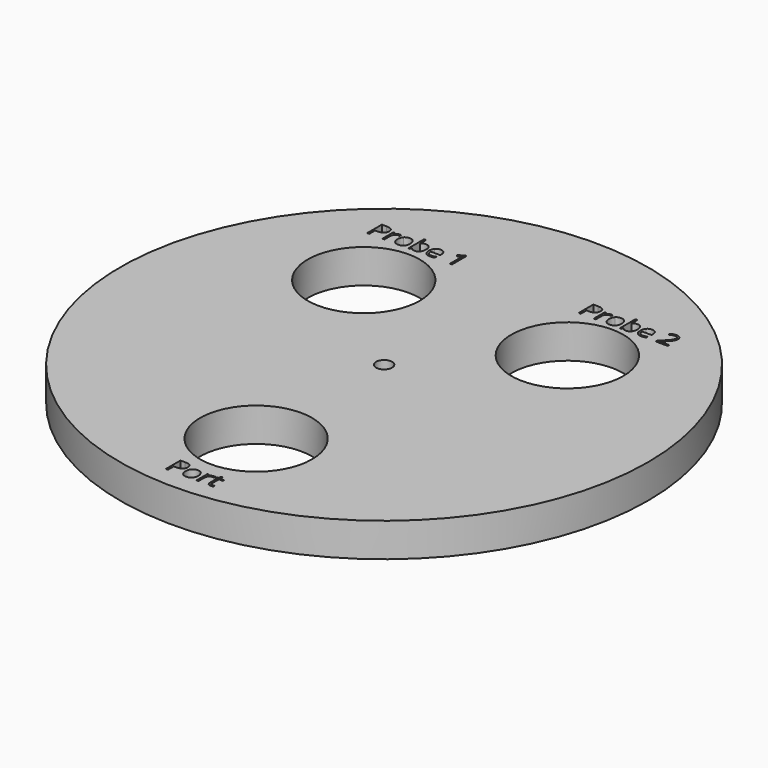
from build123d import *

# Parameters (mm, degrees)
F0_R     = 49.5
F0_R_2   = 10.5
F0_R_3   = 1.5
F1_DEPTH = 6.35


with BuildPart() as f1:
    # F0 (on Top) → F1 (new body)
    with BuildSketch(Plane.XY):
        Circle(F0_R)
        with BuildLine():
            add(Edge.make_bspline(
                [(-3.4192780036, -42.3484798278), (-2.1291036731, -42.3484798278), (-2.1291036731, -43.3515300813)],
                knots=[0, 0, 0, 1, 1, 1], degree=2))
            add(Edge.make_bspline(
                [(-2.1291036731, -43.3515300813), (-2.1291036731, -43.8745329933), (-2.4859363516, -44.1560050216)],
                knots=[0, 0, 0, 1, 1, 1], degree=2))
            add(Edge.make_bspline(
                [(-2.4859363516, -44.1560050216), (-2.84276903, -44.4374770498), (-3.5066963578, -44.4374770498)],
                knots=[0, 0, 0, 1, 1, 1], degree=2))
            Line((-3.5066963578, -44.4374770498), (-3.9121366555, -44.4374770498))
            Line((-3.9121366555, -44.4374770498), (-3.9121366555, -45.7917079329))
            Line((-3.9121366555, -45.7917079329), (-4.3123017078, -45.7917079329))
            Line((-4.3123017078, -45.7917079329), (-4.3123017078, -42.3484798278))
            Line((-4.3123017078, -42.3484798278), (-3.4192780036, -42.3484798278))
        make_face(mode=Mode.SUBTRACT)
        with BuildLine():
            add(Edge.make_bspline(
                [(0.4410713001, -43.5237291668), (0.7602236534, -43.8843298778), (0.7602236534, -44.4985191765)],
                knots=[0, 0, 0, 1, 1, 1], degree=2))
            add(Edge.make_bspline(
                [(0.7602236534, -44.4985191765), (0.7602236534, -45.1300414247), (0.4425785131, -45.4846132836)],
                knots=[0, 0, 0, 1, 1, 1], degree=2))
            add(Edge.make_bspline(
                [(0.4425785131, -45.4846132836), (0.1249333727, -45.8391851425), (-0.4357498644, -45.8391851425)],
                knots=[0, 0, 0, 1, 1, 1], degree=2))
            add(Edge.make_bspline(
                [(-0.4357498644, -45.8391851425), (-0.782408855, -45.8391851425), (-1.0506927695, -45.6764061382)],
                knots=[0, 0, 0, 1, 1, 1], degree=2))
            add(Edge.make_bspline(
                [(-1.0506927695, -45.6764061382), (-1.3189766841, -45.5136271339), (-1.4651763453, -45.2099237138)],
                knots=[0, 0, 0, 1, 1, 1], degree=2))
            add(Edge.make_bspline(
                [(-1.4651763453, -45.2099237138), (-1.6113760066, -44.9062202937), (-1.6113760066, -44.4985191765)],
                knots=[0, 0, 0, 1, 1, 1], degree=2))
            add(Edge.make_bspline(
                [(-1.6113760066, -44.4985191765), (-1.6113760066, -43.8677505347), (-1.2956148825, -43.5154394953)],
                knots=[0, 0, 0, 1, 1, 1], degree=2))
            add(Edge.make_bspline(
                [(-1.2956148825, -43.5154394953), (-0.9798537584, -43.1631284559), (-0.4191705213, -43.1631284559)],
                knots=[0, 0, 0, 1, 1, 1], degree=2))
            add(Edge.make_bspline(
                [(-0.4191705213, -43.1631284559), (0.1219189467, -43.1631284559), (0.4410713001, -43.5237291668)],
                knots=[0, 0, 0, 1, 1, 1], degree=2))
        make_face(mode=Mode.SUBTRACT)
        with BuildLine():
            add(Edge.make_bspline(
                [(2.1785110892, -43.2999080359), (2.3812312381, -43.1631284559), (2.6238925315, -43.1631284559)],
                knots=[0, 0, 0, 1, 1, 1], degree=2))
            add(Edge.make_bspline(
                [(2.6238925315, -43.1631284559), (2.7957148139, -43.1631284559), (2.9321175906, -43.1917655029)],
                knots=[0, 0, 0, 1, 1, 1], degree=2))
            Line((2.9321175906, -43.1917655029), (2.8778579225, -43.5542502301))
            add(Edge.make_bspline(
                [(2.8778579225, -43.5542502301), (2.7180933442, -43.5188307246), (2.5952554845, -43.5188307246)],
                knots=[0, 0, 0, 1, 1, 1], degree=2))
            add(Edge.make_bspline(
                [(2.5952554845, -43.5188307246), (2.2817551799, -43.5188307246), (2.0594412619, -43.7731729188)],
                knots=[0, 0, 0, 1, 1, 1], degree=2))
            add(Edge.make_bspline(
                [(2.0594412619, -43.7731729188), (1.837127344, -44.0275151131), (1.837127344, -44.4065791833)],
                knots=[0, 0, 0, 1, 1, 1], degree=2))
            Line((1.837127344, -44.4065791833), (1.837127344, -45.7917079329))
            Line((1.837127344, -45.7917079329), (1.4460055698, -45.7917079329))
            Line((1.4460055698, -45.7917079329), (1.4460055698, -43.2106056655))
            Line((1.4460055698, -43.2106056655), (1.7685491524, -43.2106056655))
            Line((1.7685491524, -43.2106056655), (1.8137655425, -43.6883921874))
            Line((1.8137655425, -43.6883921874), (1.832605705, -43.6883921874))
            add(Edge.make_bspline(
                [(1.832605705, -43.6883921874), (1.9757909403, -43.4366876159), (2.1785110892, -43.2999080359)],
                knots=[0, 0, 0, 1, 1, 1], degree=2))
        make_face(mode=Mode.SUBTRACT)
        with BuildLine():
            add(Edge.make_bspline(
                [(3.9449647286, -45.3911660774), (4.0557448843, -45.5158879534), (4.2486681486, -45.5158879534)],
                knots=[0, 0, 0, 1, 1, 1], degree=2))
            add(Edge.make_bspline(
                [(4.2486681486, -45.5158879534), (4.3526658458, -45.5158879534), (4.449127478, -45.5008158234)],
                knots=[0, 0, 0, 1, 1, 1], degree=2))
            add(Edge.make_bspline(
                [(4.449127478, -45.5008158234), (4.5455891102, -45.4857436934), (4.6021095978, -45.4691643503)],
                knots=[0, 0, 0, 1, 1, 1], degree=2))
            Line((4.6021095978, -45.4691643503), (4.6021095978, -45.7683461314))
            add(Edge.make_bspline(
                [(4.6021095978, -45.7683461314), (4.5388066517, -45.7984903915), (4.4152151855, -45.818837767)],
                knots=[0, 0, 0, 1, 1, 1], degree=2))
            add(Edge.make_bspline(
                [(4.4152151855, -45.818837767), (4.2916237192, -45.8391851425), (4.192147661, -45.8391851425)],
                knots=[0, 0, 0, 1, 1, 1], degree=2))
            add(Edge.make_bspline(
                [(4.192147661, -45.8391851425), (3.4438164051, -45.8391851425), (3.4438164051, -45.0501591355)],
                knots=[0, 0, 0, 1, 1, 1], degree=2))
            Line((3.4438164051, -45.0501591355), (3.4438164051, -43.5143090856))
            Line((3.4438164051, -43.5143090856), (3.0737956129, -43.5143090856))
            Line((3.0737956129, -43.5143090856), (3.0737956129, -43.3259074602))
            Line((3.0737956129, -43.3259074602), (3.4438164051, -43.1631284559))
            Line((3.4438164051, -43.1631284559), (3.6081026224, -42.6122421033))
            Line((3.6081026224, -42.6122421033), (3.8341845729, -42.6122421033))
            Line((3.8341845729, -42.6122421033), (3.8341845729, -43.2106056655))
            Line((3.8341845729, -43.2106056655), (4.5832694353, -43.2106056655))
            Line((4.5832694353, -43.2106056655), (4.5832694353, -43.5143090856))
            Line((4.5832694353, -43.5143090856), (3.8341845729, -43.5143090856))
            Line((3.8341845729, -43.5143090856), (3.8341845729, -45.0335797925))
            add(Edge.make_bspline(
                [(3.8341845729, -45.0335797925), (3.8341845729, -45.2664442014), (3.9449647286, -45.3911660774)],
                knots=[0, 0, 0, 1, 1, 1], degree=2))
        make_face(mode=Mode.SUBTRACT)
        with Locations((0, -30)):
            Circle(F0_R_2, mode=Mode.SUBTRACT)
        with Locations((-19.091883092, 19.091883092)):
            Circle(F0_R_2, mode=Mode.SUBTRACT)
        with BuildLine():
            add(Edge.make_bspline(
                [(-27.1236699078, 34.502072284), (-25.8334955773, 34.502072284), (-25.8334955773, 33.4990220306)],
                knots=[0, 0, 0, 1, 1, 1], degree=2))
            add(Edge.make_bspline(
                [(-25.8334955773, 33.4990220306), (-25.8334955773, 32.9760191186), (-26.1903282557, 32.6945470903)],
                knots=[0, 0, 0, 1, 1, 1], degree=2))
            add(Edge.make_bspline(
                [(-26.1903282557, 32.6945470903), (-26.5471609342, 32.413075062), (-27.2110882619, 32.413075062)],
                knots=[0, 0, 0, 1, 1, 1], degree=2))
            Line((-27.2110882619, 32.413075062), (-27.6165285597, 32.413075062))
            Line((-27.6165285597, 32.413075062), (-27.6165285597, 31.0588441789))
            Line((-27.6165285597, 31.0588441789), (-28.016693612, 31.0588441789))
            Line((-28.016693612, 31.0588441789), (-28.016693612, 34.502072284))
            Line((-28.016693612, 34.502072284), (-27.1236699078, 34.502072284))
        make_face(mode=Mode.SUBTRACT)
        with BuildLine():
            add(Edge.make_bspline(
                [(-24.4393235496, 33.550644076), (-24.2366034007, 33.687423656), (-23.9939421073, 33.687423656)],
                knots=[0, 0, 0, 1, 1, 1], degree=2))
            add(Edge.make_bspline(
                [(-23.9939421073, 33.687423656), (-23.8221198249, 33.687423656), (-23.6857170482, 33.6587866089)],
                knots=[0, 0, 0, 1, 1, 1], degree=2))
            Line((-23.6857170482, 33.6587866089), (-23.7399767163, 33.2963018817))
            add(Edge.make_bspline(
                [(-23.7399767163, 33.2963018817), (-23.8997412946, 33.3317213873), (-24.0225791543, 33.3317213873)],
                knots=[0, 0, 0, 1, 1, 1], degree=2))
            add(Edge.make_bspline(
                [(-24.0225791543, 33.3317213873), (-24.3360794589, 33.3317213873), (-24.5583933768, 33.077379193)],
                knots=[0, 0, 0, 1, 1, 1], degree=2))
            add(Edge.make_bspline(
                [(-24.5583933768, 33.077379193), (-24.7807072948, 32.8230369988), (-24.7807072948, 32.4439729286)],
                knots=[0, 0, 0, 1, 1, 1], degree=2))
            Line((-24.7807072948, 32.4439729286), (-24.7807072948, 31.0588441789))
            Line((-24.7807072948, 31.0588441789), (-25.171829069, 31.0588441789))
            Line((-25.171829069, 31.0588441789), (-25.171829069, 33.6399464464))
            Line((-25.171829069, 33.6399464464), (-24.8492854864, 33.6399464464))
            Line((-24.8492854864, 33.6399464464), (-24.8040690963, 33.1621599245))
            Line((-24.8040690963, 33.1621599245), (-24.7852289338, 33.1621599245))
            add(Edge.make_bspline(
                [(-24.7852289338, 33.1621599245), (-24.6420436985, 33.4138644959), (-24.4393235496, 33.550644076)],
                knots=[0, 0, 0, 1, 1, 1], degree=2))
        make_face(mode=Mode.SUBTRACT)
        with BuildLine():
            add(Edge.make_bspline(
                [(-21.2941468158, 33.326822945), (-20.9749944624, 32.9662222341), (-20.9749944624, 32.3520329354)],
                knots=[0, 0, 0, 1, 1, 1], degree=2))
            add(Edge.make_bspline(
                [(-20.9749944624, 32.3520329354), (-20.9749944624, 31.7205106872), (-21.2926396028, 31.3659388283)],
                knots=[0, 0, 0, 1, 1, 1], degree=2))
            add(Edge.make_bspline(
                [(-21.2926396028, 31.3659388283), (-21.6102847432, 31.0113669693), (-22.1709679802, 31.0113669693)],
                knots=[0, 0, 0, 1, 1, 1], degree=2))
            add(Edge.make_bspline(
                [(-22.1709679802, 31.0113669693), (-22.5176269709, 31.0113669693), (-22.7859108854, 31.1741459736)],
                knots=[0, 0, 0, 1, 1, 1], degree=2))
            add(Edge.make_bspline(
                [(-22.7859108854, 31.1741459736), (-23.0541947999, 31.3369249779), (-23.2003944612, 31.640628398)],
                knots=[0, 0, 0, 1, 1, 1], degree=2))
            add(Edge.make_bspline(
                [(-23.2003944612, 31.640628398), (-23.3465941225, 31.9443318181), (-23.3465941225, 32.3520329354)],
                knots=[0, 0, 0, 1, 1, 1], degree=2))
            add(Edge.make_bspline(
                [(-23.3465941225, 32.3520329354), (-23.3465941225, 32.9828015771), (-23.0308329984, 33.3351126165)],
                knots=[0, 0, 0, 1, 1, 1], degree=2))
            add(Edge.make_bspline(
                [(-23.0308329984, 33.3351126165), (-22.7150718743, 33.687423656), (-22.1543886372, 33.687423656)],
                knots=[0, 0, 0, 1, 1, 1], degree=2))
            add(Edge.make_bspline(
                [(-22.1543886372, 33.687423656), (-21.6132991692, 33.687423656), (-21.2941468158, 33.326822945)],
                knots=[0, 0, 0, 1, 1, 1], degree=2))
        make_face(mode=Mode.SUBTRACT)
        with BuildLine():
            add(Edge.make_bspline(
                [(-19.8980907719, 33.2963018817), (-19.6252852184, 33.6821484105), (-19.0879637828, 33.6821484105)],
                knots=[0, 0, 0, 1, 1, 1], degree=2))
            add(Edge.make_bspline(
                [(-19.0879637828, 33.6821484105), (-18.5792793943, 33.6821484105), (-18.2978073661, 33.3347358133)],
                knots=[0, 0, 0, 1, 1, 1], degree=2))
            add(Edge.make_bspline(
                [(-18.2978073661, 33.3347358133), (-18.0163353378, 32.9873232161), (-18.0163353378, 32.3520329354)],
                knots=[0, 0, 0, 1, 1, 1], degree=2))
            add(Edge.make_bspline(
                [(-18.0163353378, 32.3520329354), (-18.0163353378, 31.7159890482), (-18.3000681856, 31.3636780088)],
                knots=[0, 0, 0, 1, 1, 1], degree=2))
            add(Edge.make_bspline(
                [(-18.3000681856, 31.3636780088), (-18.5838010334, 31.0113669693), (-19.0879637828, 31.0113669693)],
                knots=[0, 0, 0, 1, 1, 1], degree=2))
            add(Edge.make_bspline(
                [(-19.0879637828, 31.0113669693), (-19.3404219608, 31.0113669693), (-19.5487941585, 31.1044373723)],
                knots=[0, 0, 0, 1, 1, 1], degree=2))
            add(Edge.make_bspline(
                [(-19.5487941585, 31.1044373723), (-19.7571663561, 31.1975077752), (-19.8980907719, 31.3911846461)],
                knots=[0, 0, 0, 1, 1, 1], degree=2))
            Line((-19.8980907719, 31.3911846461), (-19.9267278189, 31.3911846461))
            Line((-19.9267278189, 31.3911846461), (-20.0088709276, 31.0588441789))
            Line((-20.0088709276, 31.0588441789), (-20.2892125461, 31.0588441789))
            Line((-20.2892125461, 31.0588441789), (-20.2892125461, 34.7236325955))
            Line((-20.2892125461, 34.7236325955), (-19.8980907719, 34.7236325955))
            Line((-19.8980907719, 34.7236325955), (-19.8980907719, 33.8328697107))
            add(Edge.make_bspline(
                [(-19.8980907719, 33.8328697107), (-19.8980907719, 33.5336879297), (-19.9169309344, 33.2963018817)],
                knots=[0, 0, 0, 1, 1, 1], degree=2))
            Line((-19.9169309344, 33.2963018817), (-19.8980907719, 33.2963018817))
        make_face(mode=Mode.SUBTRACT)
        with BuildLine():
            add(Edge.make_bspline(
                [(-15.796964191, 31.0505545074), (-15.9815977838, 31.0113669693), (-16.2430992398, 31.0113669693)],
                knots=[0, 0, 0, 1, 1, 1], degree=2))
            add(Edge.make_bspline(
                [(-16.2430992398, 31.0113669693), (-16.8150865744, 31.0113669693), (-17.1462966318, 31.3602867795)],
                knots=[0, 0, 0, 1, 1, 1], degree=2))
            add(Edge.make_bspline(
                [(-17.1462966318, 31.3602867795), (-17.4775066892, 31.7092065897), (-17.4775066892, 32.3279175274)],
                knots=[0, 0, 0, 1, 1, 1], degree=2))
            add(Edge.make_bspline(
                [(-17.4775066892, 32.3279175274), (-17.4775066892, 32.9526573171), (-17.1700352366, 33.3200404865)],
                knots=[0, 0, 0, 1, 1, 1], degree=2))
            add(Edge.make_bspline(
                [(-17.1700352366, 33.3200404865), (-16.862563784, 33.687423656), (-16.344082511, 33.687423656)],
                knots=[0, 0, 0, 1, 1, 1], degree=2))
            add(Edge.make_bspline(
                [(-16.344082511, 33.687423656), (-15.8595135306, 33.687423656), (-15.5769110926, 33.3682713026)],
                knots=[0, 0, 0, 1, 1, 1], degree=2))
            add(Edge.make_bspline(
                [(-15.5769110926, 33.3682713026), (-15.2943086545, 33.0491189492), (-15.2943086545, 32.5261160372)],
                knots=[0, 0, 0, 1, 1, 1], degree=2))
            Line((-15.2943086545, 32.5261160372), (-15.2943086545, 32.2789331048))
            Line((-15.2943086545, 32.2789331048), (-17.0720663914, 32.2789331048))
            add(Edge.make_bspline(
                [(-17.0720663914, 32.2789331048), (-17.0600086874, 31.8245083844), (-16.8422164085, 31.5890063527)],
                knots=[0, 0, 0, 1, 1, 1], degree=2))
            add(Edge.make_bspline(
                [(-16.8422164085, 31.5890063527), (-16.6244241296, 31.353504321), (-16.2287807163, 31.353504321)],
                knots=[0, 0, 0, 1, 1, 1], degree=2))
            add(Edge.make_bspline(
                [(-16.2287807163, 31.353504321), (-15.812036321, 31.353504321), (-15.4050888102, 31.5275874228)],
                knots=[0, 0, 0, 1, 1, 1], degree=2))
            Line((-15.4050888102, 31.5275874228), (-15.4050888102, 31.1786676126))
            add(Edge.make_bspline(
                [(-15.4050888102, 31.1786676126), (-15.6123305981, 31.0897420455), (-15.796964191, 31.0505545074)],
                knots=[0, 0, 0, 1, 1, 1], degree=2))
        make_face(mode=Mode.SUBTRACT)
        with BuildLine():
            Line((-12.1050459404, 34.502072284), (-12.1050459404, 31.0588441789))
            Line((-12.1050459404, 31.0588441789), (-12.4863708301, 31.0588441789))
            Line((-12.4863708301, 31.0588441789), (-12.4863708301, 33.5125869476))
            add(Edge.make_bspline(
                [(-12.4863708301, 33.5125869476), (-12.4863708301, 33.8193047937), (-12.4675306676, 34.0921103472)],
                knots=[0, 0, 0, 1, 1, 1], degree=2))
            add(Edge.make_bspline(
                [(-12.4675306676, 34.0921103472), (-12.5165150902, 34.0423723182), (-12.5779340201, 33.9884894533)],
                knots=[0, 0, 0, 1, 1, 1], degree=2))
            add(Edge.make_bspline(
                [(-12.5779340201, 33.9884894533), (-12.6393529499, 33.9346065884), (-13.1382404539, 33.5291662907)],
                knots=[0, 0, 0, 1, 1, 1], degree=2))
            Line((-13.1382404539, 33.5291662907), (-13.3454822418, 33.7974502052))
            Line((-13.3454822418, 33.7974502052), (-12.4343719815, 34.502072284))
            Line((-12.4343719815, 34.502072284), (-12.1050459404, 34.502072284))
        make_face(mode=Mode.SUBTRACT)
        Circle(F0_R_3, mode=Mode.SUBTRACT)
        with Locations((19.091883092, 19.091883092)):
            Circle(F0_R_2, mode=Mode.SUBTRACT)
        with BuildLine():
            add(Edge.make_bspline(
                [(12.8869285804, 34.0491272752), (14.1771029109, 34.0491272752), (14.1771029109, 33.0460770217)],
                knots=[0, 0, 0, 1, 1, 1], degree=2))
            add(Edge.make_bspline(
                [(14.1771029109, 33.0460770217), (14.1771029109, 32.5230741097), (13.8202702324, 32.2416020814)],
                knots=[0, 0, 0, 1, 1, 1], degree=2))
            add(Edge.make_bspline(
                [(13.8202702324, 32.2416020814), (13.463437554, 31.9601300531), (12.7995102262, 31.9601300531)],
                knots=[0, 0, 0, 1, 1, 1], degree=2))
            Line((12.7995102262, 31.9601300531), (12.3940699284, 31.9601300531))
            Line((12.3940699284, 31.9601300531), (12.3940699284, 30.60589917))
            Line((12.3940699284, 30.60589917), (11.9939048762, 30.60589917))
            Line((11.9939048762, 30.60589917), (11.9939048762, 34.0491272752))
            Line((11.9939048762, 34.0491272752), (12.8869285804, 34.0491272752))
        make_face(mode=Mode.SUBTRACT)
        with BuildLine():
            add(Edge.make_bspline(
                [(15.5712749385, 33.0976990671), (15.7739950874, 33.2344786471), (16.0166563809, 33.2344786471)],
                knots=[0, 0, 0, 1, 1, 1], degree=2))
            add(Edge.make_bspline(
                [(16.0166563809, 33.2344786471), (16.1884786632, 33.2344786471), (16.32488144, 33.2058416)],
                knots=[0, 0, 0, 1, 1, 1], degree=2))
            Line((16.32488144, 33.2058416), (16.2706217719, 32.8433568728))
            add(Edge.make_bspline(
                [(16.2706217719, 32.8433568728), (16.1108571936, 32.8787763784), (15.9880193338, 32.8787763784)],
                knots=[0, 0, 0, 1, 1, 1], degree=2))
            add(Edge.make_bspline(
                [(15.9880193338, 32.8787763784), (15.6745190292, 32.8787763784), (15.4522051113, 32.6244341842)],
                knots=[0, 0, 0, 1, 1, 1], degree=2))
            add(Edge.make_bspline(
                [(15.4522051113, 32.6244341842), (15.2298911934, 32.3700919899), (15.2298911934, 31.9910279197)],
                knots=[0, 0, 0, 1, 1, 1], degree=2))
            Line((15.2298911934, 31.9910279197), (15.2298911934, 30.60589917))
            Line((15.2298911934, 30.60589917), (14.8387694191, 30.60589917))
            Line((14.8387694191, 30.60589917), (14.8387694191, 33.1870014375))
            Line((14.8387694191, 33.1870014375), (15.1613130018, 33.1870014375))
            Line((15.1613130018, 33.1870014375), (15.2065293918, 32.7092149156))
            Line((15.2065293918, 32.7092149156), (15.2253695544, 32.7092149156))
            add(Edge.make_bspline(
                [(15.2253695544, 32.7092149156), (15.3685547897, 32.9609194871), (15.5712749385, 33.0976990671)],
                knots=[0, 0, 0, 1, 1, 1], degree=2))
        make_face(mode=Mode.SUBTRACT)
        with BuildLine():
            add(Edge.make_bspline(
                [(18.7164516723, 32.8738779362), (19.0356040257, 32.5132772252), (19.0356040257, 31.8990879265)],
                knots=[0, 0, 0, 1, 1, 1], degree=2))
            add(Edge.make_bspline(
                [(19.0356040257, 31.8990879265), (19.0356040257, 31.2675656783), (18.7179588853, 30.9129938194)],
                knots=[0, 0, 0, 1, 1, 1], degree=2))
            add(Edge.make_bspline(
                [(18.7179588853, 30.9129938194), (18.400313745, 30.5584219604), (17.8396305079, 30.5584219604)],
                knots=[0, 0, 0, 1, 1, 1], degree=2))
            add(Edge.make_bspline(
                [(17.8396305079, 30.5584219604), (17.4929715172, 30.5584219604), (17.2246876027, 30.7212009648)],
                knots=[0, 0, 0, 1, 1, 1], degree=2))
            add(Edge.make_bspline(
                [(17.2246876027, 30.7212009648), (16.9564036882, 30.8839799691), (16.8102040269, 31.1876833892)],
                knots=[0, 0, 0, 1, 1, 1], degree=2))
            add(Edge.make_bspline(
                [(16.8102040269, 31.1876833892), (16.6640043656, 31.4913868092), (16.6640043656, 31.8990879265)],
                knots=[0, 0, 0, 1, 1, 1], degree=2))
            add(Edge.make_bspline(
                [(16.6640043656, 31.8990879265), (16.6640043656, 32.5298565682), (16.9797654897, 32.8821676077)],
                knots=[0, 0, 0, 1, 1, 1], degree=2))
            add(Edge.make_bspline(
                [(16.9797654897, 32.8821676077), (17.2955266139, 33.2344786471), (17.8562098509, 33.2344786471)],
                knots=[0, 0, 0, 1, 1, 1], degree=2))
            add(Edge.make_bspline(
                [(17.8562098509, 33.2344786471), (18.397299319, 33.2344786471), (18.7164516723, 32.8738779362)],
                knots=[0, 0, 0, 1, 1, 1], degree=2))
        make_face(mode=Mode.SUBTRACT)
        with BuildLine():
            add(Edge.make_bspline(
                [(20.1125077163, 32.8433568728), (20.3853132698, 33.2292034016), (20.9226347053, 33.2292034016)],
                knots=[0, 0, 0, 1, 1, 1], degree=2))
            add(Edge.make_bspline(
                [(20.9226347053, 33.2292034016), (21.4313190938, 33.2292034016), (21.7127911221, 32.8817908044)],
                knots=[0, 0, 0, 1, 1, 1], degree=2))
            add(Edge.make_bspline(
                [(21.7127911221, 32.8817908044), (21.9942631504, 32.5343782072), (21.9942631504, 31.8990879265)],
                knots=[0, 0, 0, 1, 1, 1], degree=2))
            add(Edge.make_bspline(
                [(21.9942631504, 31.8990879265), (21.9942631504, 31.2630440393), (21.7105303026, 30.9107329999)],
                knots=[0, 0, 0, 1, 1, 1], degree=2))
            add(Edge.make_bspline(
                [(21.7105303026, 30.9107329999), (21.4267974548, 30.5584219604), (20.9226347053, 30.5584219604)],
                knots=[0, 0, 0, 1, 1, 1], degree=2))
            add(Edge.make_bspline(
                [(20.9226347053, 30.5584219604), (20.6701765273, 30.5584219604), (20.4618043297, 30.6514923634)],
                knots=[0, 0, 0, 1, 1, 1], degree=2))
            add(Edge.make_bspline(
                [(20.4618043297, 30.6514923634), (20.253432132, 30.7445627663), (20.1125077163, 30.9382396372)],
                knots=[0, 0, 0, 1, 1, 1], degree=2))
            Line((20.1125077163, 30.9382396372), (20.0838706692, 30.9382396372))
            Line((20.0838706692, 30.9382396372), (20.0017275606, 30.60589917))
            Line((20.0017275606, 30.60589917), (19.721385942, 30.60589917))
            Line((19.721385942, 30.60589917), (19.721385942, 34.2706875866))
            Line((19.721385942, 34.2706875866), (20.1125077163, 34.2706875866))
            Line((20.1125077163, 34.2706875866), (20.1125077163, 33.3799247019))
            add(Edge.make_bspline(
                [(20.1125077163, 33.3799247019), (20.1125077163, 33.0807429208), (20.0936675537, 32.8433568728)],
                knots=[0, 0, 0, 1, 1, 1], degree=2))
            Line((20.0936675537, 32.8433568728), (20.1125077163, 32.8433568728))
        make_face(mode=Mode.SUBTRACT)
        with BuildLine():
            add(Edge.make_bspline(
                [(24.2136342972, 30.5976094985), (24.0290007043, 30.5584219604), (23.7674992483, 30.5584219604)],
                knots=[0, 0, 0, 1, 1, 1], degree=2))
            add(Edge.make_bspline(
                [(23.7674992483, 30.5584219604), (23.1955119137, 30.5584219604), (22.8643018563, 30.9073417706)],
                knots=[0, 0, 0, 1, 1, 1], degree=2))
            add(Edge.make_bspline(
                [(22.8643018563, 30.9073417706), (22.5330917989, 31.2562615808), (22.5330917989, 31.8749725185)],
                knots=[0, 0, 0, 1, 1, 1], degree=2))
            add(Edge.make_bspline(
                [(22.5330917989, 31.8749725185), (22.5330917989, 32.4997123082), (22.8405632515, 32.8670954776)],
                knots=[0, 0, 0, 1, 1, 1], degree=2))
            add(Edge.make_bspline(
                [(22.8405632515, 32.8670954776), (23.1480347041, 33.2344786471), (23.6665159771, 33.2344786471)],
                knots=[0, 0, 0, 1, 1, 1], degree=2))
            add(Edge.make_bspline(
                [(23.6665159771, 33.2344786471), (24.1510849575, 33.2344786471), (24.4336873956, 32.9153262937)],
                knots=[0, 0, 0, 1, 1, 1], degree=2))
            add(Edge.make_bspline(
                [(24.4336873956, 32.9153262937), (24.7162898336, 32.5961739404), (24.7162898336, 32.0731710284)],
                knots=[0, 0, 0, 1, 1, 1], degree=2))
            Line((24.7162898336, 32.0731710284), (24.7162898336, 31.8259880959))
            Line((24.7162898336, 31.8259880959), (22.9385320967, 31.8259880959))
            add(Edge.make_bspline(
                [(22.9385320967, 31.8259880959), (22.9505898007, 31.3715633755), (23.1683820797, 31.1360613438)],
                knots=[0, 0, 0, 1, 1, 1], degree=2))
            add(Edge.make_bspline(
                [(23.1683820797, 31.1360613438), (23.3861743586, 30.9005593121), (23.7818177718, 30.9005593121)],
                knots=[0, 0, 0, 1, 1, 1], degree=2))
            add(Edge.make_bspline(
                [(23.7818177718, 30.9005593121), (24.1985621671, 30.9005593121), (24.6055096779, 31.0746424139)],
                knots=[0, 0, 0, 1, 1, 1], degree=2))
            Line((24.6055096779, 31.0746424139), (24.6055096779, 30.7257226038))
            add(Edge.make_bspline(
                [(24.6055096779, 30.7257226038), (24.39826789, 30.6367970366), (24.2136342972, 30.5976094985)],
                knots=[0, 0, 0, 1, 1, 1], degree=2))
        make_face(mode=Mode.SUBTRACT)
        with BuildLine():
            Line((28.7209547823, 30.9683838972), (28.7209547823, 30.60589917))
            Line((28.7209547823, 30.60589917), (26.4578744585, 30.60589917))
            Line((26.4578744585, 30.60589917), (26.4578744585, 30.9427612762))
            Line((26.4578744585, 30.9427612762), (27.3644630797, 31.8538715364))
            add(Edge.make_bspline(
                [(27.3644630797, 31.8538715364), (27.7789466555, 32.2736303577), (27.9108277933, 32.4526119018)],
                knots=[0, 0, 0, 1, 1, 1], degree=2))
            add(Edge.make_bspline(
                [(27.9108277933, 32.4526119018), (28.042708931, 32.6315934459), (28.1086494999, 32.8011549088)],
                knots=[0, 0, 0, 1, 1, 1], degree=2))
            add(Edge.make_bspline(
                [(28.1086494999, 32.8011549088), (28.1745900688, 32.9707163716), (28.1745900688, 33.1659004555)],
                knots=[0, 0, 0, 1, 1, 1], degree=2))
            add(Edge.make_bspline(
                [(28.1745900688, 33.1659004555), (28.1745900688, 33.441720435), (28.0072894255, 33.6029922263)],
                knots=[0, 0, 0, 1, 1, 1], degree=2))
            add(Edge.make_bspline(
                [(28.0072894255, 33.6029922263), (27.8399887821, 33.7642640176), (27.5430678206, 33.7642640176)],
                knots=[0, 0, 0, 1, 1, 1], degree=2))
            add(Edge.make_bspline(
                [(27.5430678206, 33.7642640176), (27.3290435742, 33.7642640176), (27.1368739163, 33.6934250065)],
                knots=[0, 0, 0, 1, 1, 1], degree=2))
            add(Edge.make_bspline(
                [(27.1368739163, 33.6934250065), (26.9447042584, 33.6225859953), (26.70957903, 33.4364451895)],
                knots=[0, 0, 0, 1, 1, 1], degree=2))
            Line((26.70957903, 33.4364451895), (26.5023372421, 33.7024682845))
            add(Edge.make_bspline(
                [(26.5023372421, 33.7024682845), (26.9778629445, 34.0981116978), (27.5385461816, 34.0981116978)],
                knots=[0, 0, 0, 1, 1, 1], degree=2))
            add(Edge.make_bspline(
                [(27.5385461816, 34.0981116978), (28.0238687685, 34.0981116978), (28.2993119448, 33.8497983555)],
                knots=[0, 0, 0, 1, 1, 1], degree=2))
            add(Edge.make_bspline(
                [(28.2993119448, 33.8497983555), (28.574755121, 33.6014850133), (28.574755121, 33.1824797985)],
                knots=[0, 0, 0, 1, 1, 1], degree=2))
            add(Edge.make_bspline(
                [(28.574755121, 33.1824797985), (28.574755121, 32.8546609704), (28.3908751347, 32.5343782072)],
                knots=[0, 0, 0, 1, 1, 1], degree=2))
            add(Edge.make_bspline(
                [(28.3908751347, 32.5343782072), (28.2069951483, 32.2140954441), (27.7035860054, 31.7242512182)],
                knots=[0, 0, 0, 1, 1, 1], degree=2))
            Line((27.7035860054, 31.7242512182), (26.9499795039, 30.9872240598))
            Line((26.9499795039, 30.9872240598), (26.9499795039, 30.9683838972))
            Line((26.9499795039, 30.9683838972), (28.7209547823, 30.9683838972))
        make_face(mode=Mode.SUBTRACT)
    extrude(amount=F1_DEPTH)


solid = f1.part
